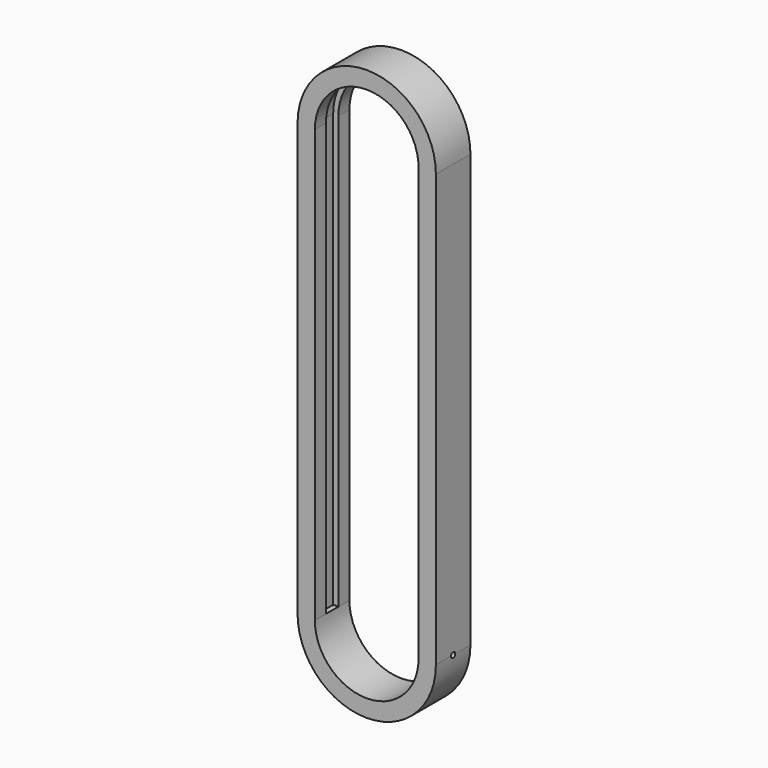
from build123d import *

# Parameters (mm, degrees)
F1_DEPTH = 25
F2_W     = 3
F2_H     = 9
F4_R     = 1.5
F5_DEPTH = 10.0385235668


with BuildPart() as f1:
    # F0 (on Front) → F1 (new body)
    with BuildSketch(Plane.XZ):
        with BuildLine():
            Line((0, 250), (0, 0))
            ThreePointArc((0, 0), (40, -40), (80, 0))
            Line((80, 0), (80, 250))
            ThreePointArc((80, 250), (40, 290), (0, 250))
        make_face()
        with BuildLine():
            ThreePointArc((10, 250), (40, 280), (70, 250))
            Line((70, 250), (70, 0))
            ThreePointArc((70, 0), (40, -30), (10, 0))
            Line((10, 0), (10, 250))
        make_face(mode=Mode.SUBTRACT)
    extrude(amount=F1_DEPTH)

    # F3: sweep along a path in F3_path
    with BuildLine(Plane(origin=(10, -25, 0), x_dir=(0, 0, -1), z_dir=(0, 1, 0))) as f3_path:
        Line((0, 0), (-250, 0))
        ThreePointArc((-250, 0), (-280, -30), (-250, -60))
        Line((-250, -60), (0, -60))
    # F2 (on Top) → F3 (sweep, cut)
    with BuildSketch(Plane.XY):
        with Locations((8.5, -12.5)):
            Rectangle(F2_W, F2_H)
    sweep(path=f3_path.line, mode=Mode.SUBTRACT)

    # F4 (on face) → F5 (cut, through all)
    with BuildSketch(Plane.YZ.offset(80)):
        with Locations((-12.5, 0)):
            Circle(F4_R)
    extrude(amount=-F5_DEPTH, mode=Mode.SUBTRACT)


solid = f1.part
